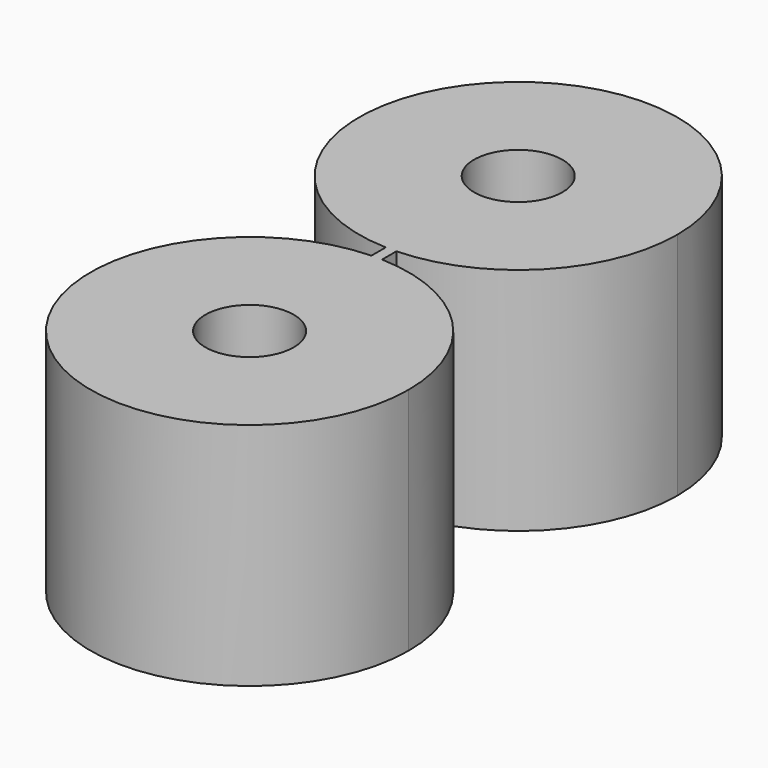
from build123d import *

# Parameters (mm, degrees)
F0_R          = 9
F1_DEPTH      = 13
F2_R          = 2.5
F3_DEPTH      = 13.001
F5_W          = 0.6
F5_H          = 13
F7_DEPTH      = 1.5050013897
F7_DEPTH_BACK = 1.5050013897


with BuildPart() as f1:
    # F0 (on Top) → F1 (new body)
    with BuildSketch(Plane.XY):
        Circle(F0_R)
    extrude(amount=F1_DEPTH)

    # F2 (on face) → F3 (cut, through all)
    with BuildSketch(Plane.XY.offset(13)):
        Circle(F2_R)
    extrude(amount=-F3_DEPTH, mode=Mode.SUBTRACT)


with BuildPart() as f6_1:
    # F6: instance of F1
    add(f1.part.mirror(Plane.XZ.offset(9.5)))


with BuildPart() as f1_1:
    add(f1.part)

    add(f6_1.part)  # F7 merges F6_1
    # F5 (on offset) → F7 (join, two sides)
    with BuildSketch(Plane.XZ.offset(9.5)) as f7_sk:
        with Locations((0, 6.5)):
            Rectangle(F5_W, F5_H)
    extrude(amount=F7_DEPTH)
    extrude(f7_sk.sketch, amount=-F7_DEPTH_BACK)


solid = f1_1.part
